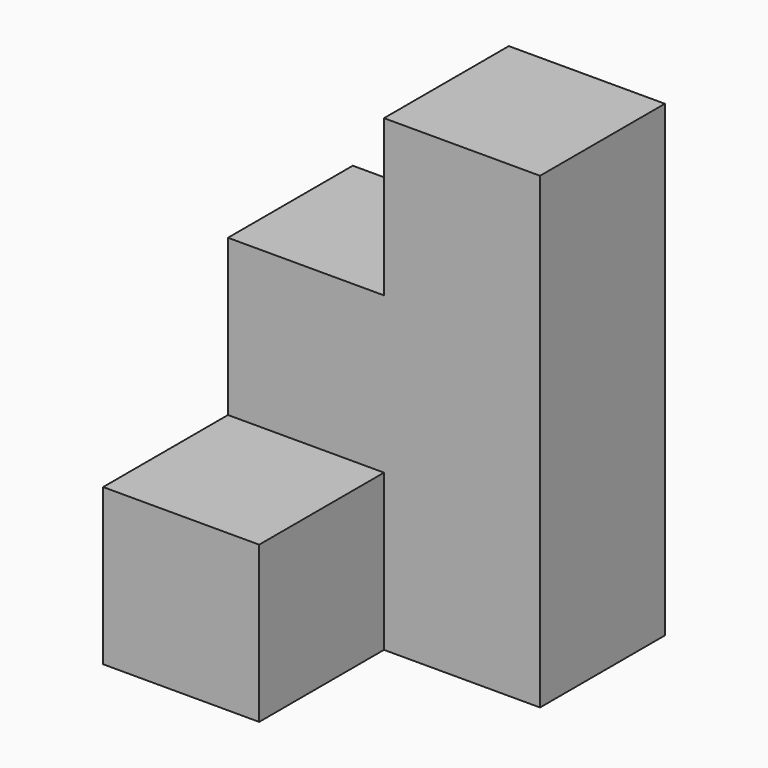
from build123d import *

# Parameters (mm, degrees)
F0_W     = 19.05
F0_H     = 19.05
F1_DEPTH = 19.05
F2_DEPTH = 19.05
F3_DEPTH = 38.1


with BuildPart() as f1:
    # F0 (on Front) → F1 (new body)
    with BuildSketch(Plane.XZ):
        with Locations((-12.501768, 27.558763)):
            Rectangle(F0_W, F0_H)
    extrude(amount=F1_DEPTH)

    # F0 (on Front) → F2 (join)
    with BuildSketch(Plane.XZ):
        Polygon((-22.026768, -1.016237), (-22.026768, -20.066237), (-2.976768, -20.066237), (-2.976768, 18.033763), (-22.026768, 18.033763), (-41.076768, 18.033763), (-41.076768, -1.016237), align=None)
    extrude(amount=F2_DEPTH)

    # F0 (on Front) → F3 (join)
    with BuildSketch(Plane.XZ):
        with Locations((-31.551768, -10.541237)):
            Rectangle(F0_W, F0_H)
    extrude(amount=F3_DEPTH)


solid = f1.part
